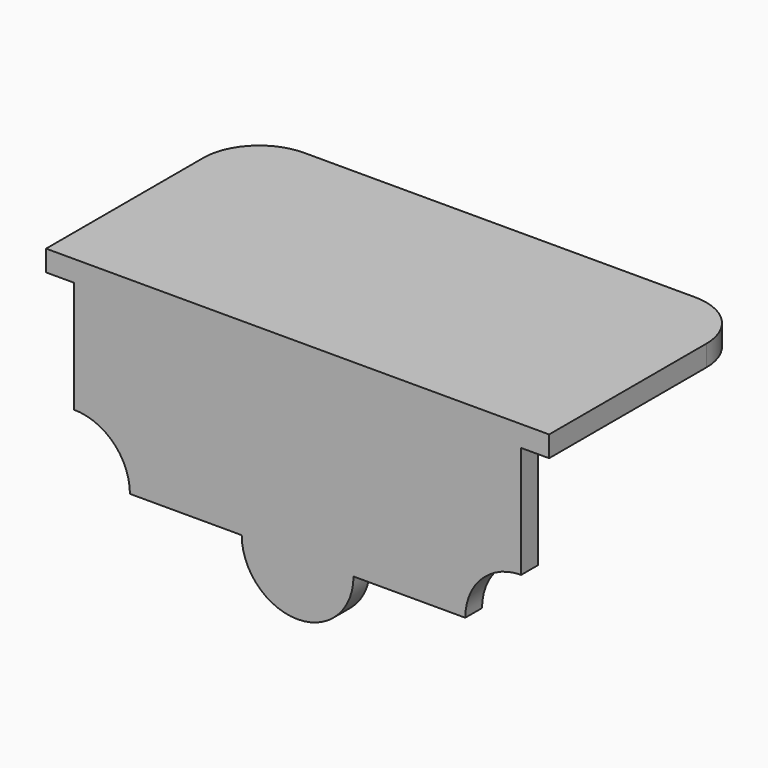
from build123d import *

# Parameters (mm, degrees)
F1_DEPTH = 9.525
F2_W     = 203.2
F2_H     = 9.525
F3_DEPTH = 9.525
F4_W     = 19.05
F4_H     = 76.2
F5_DEPTH = 88.9
F7_DEPTH = 123.826


with BuildPart() as f1:
    # F0 (on Front) → F1 (new body)
    with BuildSketch(Plane.XZ):
        with BuildLine():
            Line((140.682878, 9.299915), (-62.517122, 9.299915))
            Line((-62.517122, 9.299915), (-62.517122, -41.500085))
            ThreePointArc((-62.517122, -41.500085), (-44.55661, -48.939573), (-37.117122, -66.900085))
            Line((-37.117122, -66.900085), (13.682878, -66.900085))
            ThreePointArc((13.682878, -66.900085), (39.082878, -92.300085), (64.482878, -66.900085))
            Line((64.482878, -66.900085), (115.282878, -66.900085))
            ThreePointArc((115.282878, -66.900085), (122.722366, -48.939573), (140.682878, -41.500085))
            Line((140.682878, -41.500085), (140.682878, 9.299915))
        make_face()
    extrude(amount=F1_DEPTH)

    # F2 (on face) → F3 (join)
    with BuildSketch(Plane.XY.offset(9.299915)):
        with Locations((39.082878, -4.7625)):
            Rectangle(F2_W, F2_H)
        with BuildLine():
            Line((-75.217122, -9.525), (-62.517122, -9.525))
            Line((-62.517122, -9.525), (-62.517122, 0))
            Line((-62.517122, 0), (140.682878, 0))
            Line((140.682878, 0), (140.682878, -9.525))
            Line((140.682878, -9.525), (153.382878, -9.525))
            Line((153.382878, -9.525), (153.382878, 79.784349))
            ThreePointArc((153.382878, 79.784349), (145.94339, 97.744861), (127.982878, 105.184349))
            Line((127.982878, 105.184349), (-49.817122, 105.184349))
            ThreePointArc((-49.817122, 105.184349), (-67.777634, 97.744861), (-75.217122, 79.784349))
            Line((-75.217122, 79.784349), (-75.217122, -9.525))
        make_face()
    extrude(amount=F3_DEPTH)

    # F4 (on face) → F5 (join)
    with BuildSketch(Plane(origin=(0, 0, 0), x_dir=(-1, 0, 0), z_dir=(0, 1, 0))):
        with Locations((-39.082878, -28.800085)):
            Rectangle(F4_W, F4_H)
    extrude(amount=F5_DEPTH)

    # F6 (on face) → F7 (cut, through all)
    with BuildSketch(Plane.YZ.offset(48.607878)):
        with BuildLine():
            ThreePointArc((19.05, -66.900085), (82.336633, -128.35491), (144.408027, -65.672893))
            ThreePointArc((144.408027, -65.672893), (128.516712, -23.962451), (88.9, -3.400085))
            ThreePointArc((88.9, -3.400085), (39.556499, -19.289734), (19.05, -66.900085))
        make_face()
    extrude(amount=-F7_DEPTH, mode=Mode.SUBTRACT)


solid = f1.part
